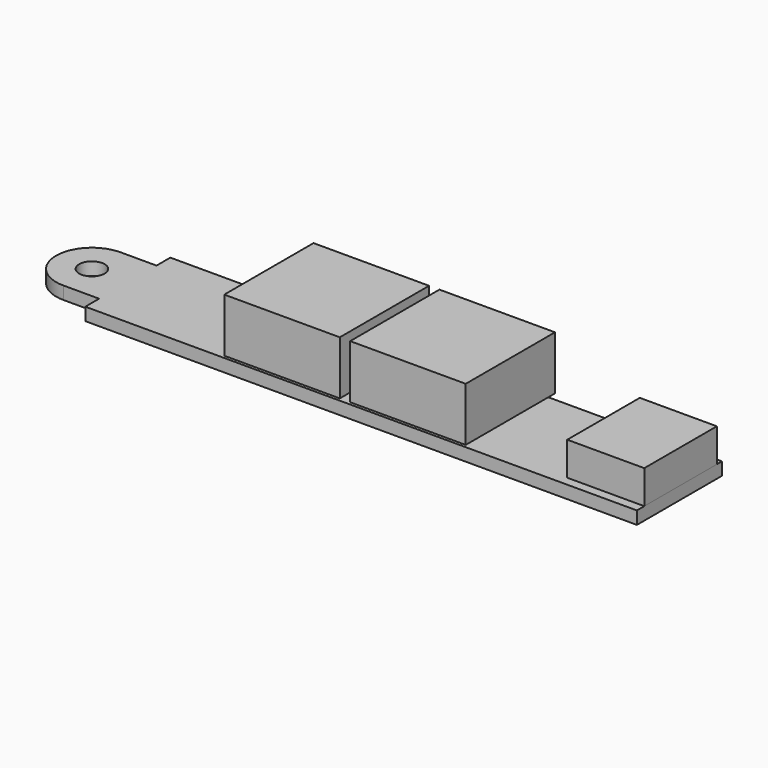
from build123d import *

# Parameters (mm, degrees)
F0_R     = 1.6
F1_DEPTH = 1.6
F2_W     = 14.5
F2_H     = 12.955
F2_H_2   = 1.045
F3_DEPTH = 6.75
F4_W     = 9.665
F4_H     = 11.379
F5_DEPTH = 4.2


with BuildPart() as f1:
    # F0 (on Top) → F1 (new body)
    with BuildSketch(Plane.XY):
        Polygon((34.6075, 6.6675), (-34.6075, 6.6675), (-34.6075, 4.5), (-34.6075, 0), (-34.6075, -4.5), (-34.6075, -6.6675), (34.6075, -6.6675), align=None)
        with BuildLine():
            Line((-34.6075, 0), (-34.6075, 4.5))
            Line((-34.6075, 4.5), (-39.1075, 4.5))
            ThreePointArc((-39.1075, 4.5), (-35.925519, 3.181981), (-34.6075, 0))
        make_face()
        with BuildLine():
            ThreePointArc((-39.1075, -4.5), (-35.925519, -3.181981), (-34.6075, 0))
            ThreePointArc((-34.6075, 0), (-35.925519, 3.181981), (-39.1075, 4.5))
            ThreePointArc((-39.1075, 4.5), (-43.6075, 0), (-39.1075, -4.5))
        make_face()
        with Locations((-39.1075, 0)):
            Circle(F0_R, mode=Mode.SUBTRACT)
        with BuildLine():
            Line((-34.6075, -4.5), (-34.6075, 0))
            ThreePointArc((-34.6075, 0), (-35.925519, -3.181981), (-39.1075, -4.5))
            Line((-39.1075, -4.5), (-34.6075, -4.5))
        make_face()
    extrude(amount=F1_DEPTH)


with BuildPart() as f3:
    # F2 (on face) → F3 (new body)
    with BuildSketch(Plane.XY.offset(1.6)):
        with Locations((-10.2255, 0.19)):
            Rectangle(F2_W, F2_H)
        with Locations((-10.2255, 7.19)):
            Rectangle(F2_W, F2_H_2)
        with Locations((5.5745, 7.19)):
            Rectangle(F2_W, F2_H_2)
        with Locations((5.5745, 0.19)):
            Rectangle(F2_W, F2_H)
    extrude(amount=F3_DEPTH)


with BuildPart() as f5:
    # F4 (on face) → F5 (new body)
    with BuildSketch(Plane.XY.offset(1.6)):
        with Locations((29.775, 0.178)):
            Rectangle(F4_W, F4_H)
    extrude(amount=F5_DEPTH)


solid = Compound([f1.part, f3.part, f5.part])
